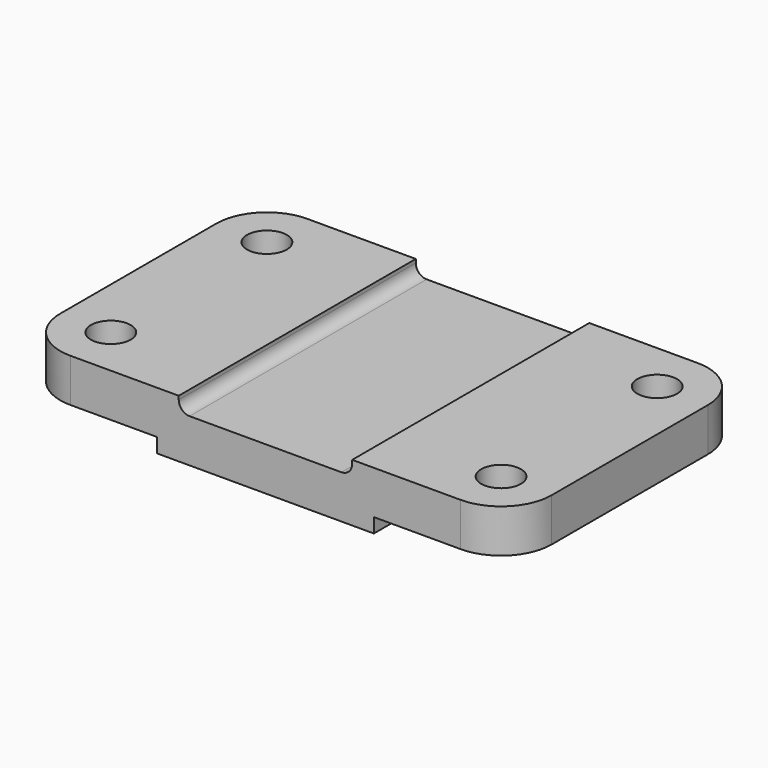
from build123d import *

# Parameters (mm, degrees)
F0_R     = 5.5
F1_DEPTH = 16
F2_W     = 38
F2_H     = 4
F3_DEPTH = 82.001


with BuildPart() as f1:
    # F0 (on Top) → F1 (new body)
    with BuildSketch(Plane.XY):
        with BuildLine():
            ThreePointArc((0, 14), (4.100505, 4.100505), (14, 0))
            Line((14, 0), (122, 0))
            ThreePointArc((122, 0), (131.899495, 4.100505), (136, 14))
            Line((136, 14), (136, 68))
            ThreePointArc((136, 68), (131.899495, 77.899495), (122, 82))
            Line((122, 82), (14, 82))
            ThreePointArc((14, 82), (4.100505, 77.899495), (0, 68))
            Line((0, 68), (0, 14))
        make_face()
        with Locations((14, 14)):
            Circle(F0_R, mode=Mode.SUBTRACT)
        with Locations((122, 14)):
            Circle(F0_R, mode=Mode.SUBTRACT)
        with Locations((14, 68)):
            Circle(F0_R, mode=Mode.SUBTRACT)
        with Locations((122, 68)):
            Circle(F0_R, mode=Mode.SUBTRACT)
    extrude(amount=F1_DEPTH)

    # F2 (on face) → F3 (cut, through all)
    with BuildSketch(Plane.XZ):
        with Locations((19, 2)):
            Rectangle(F2_W, F2_H)
        with Locations((117, 2)):
            Rectangle(F2_W, F2_H)
        with BuildLine():
            Line((92, 16), (68, 16))
            Line((68, 16), (68, 12))
            Line((68, 12), (89, 12))
            ThreePointArc((89, 12), (91.12132, 12.87868), (92, 15))
            Line((92, 15), (92, 16))
        make_face()
        with BuildLine():
            Line((68, 12), (68, 16))
            Line((68, 16), (44, 16))
            Line((44, 16), (44, 15))
            ThreePointArc((44, 15), (44.87868, 12.87868), (47, 12))
            Line((47, 12), (68, 12))
        make_face()
    extrude(amount=-F3_DEPTH, mode=Mode.SUBTRACT)


solid = f1.part
